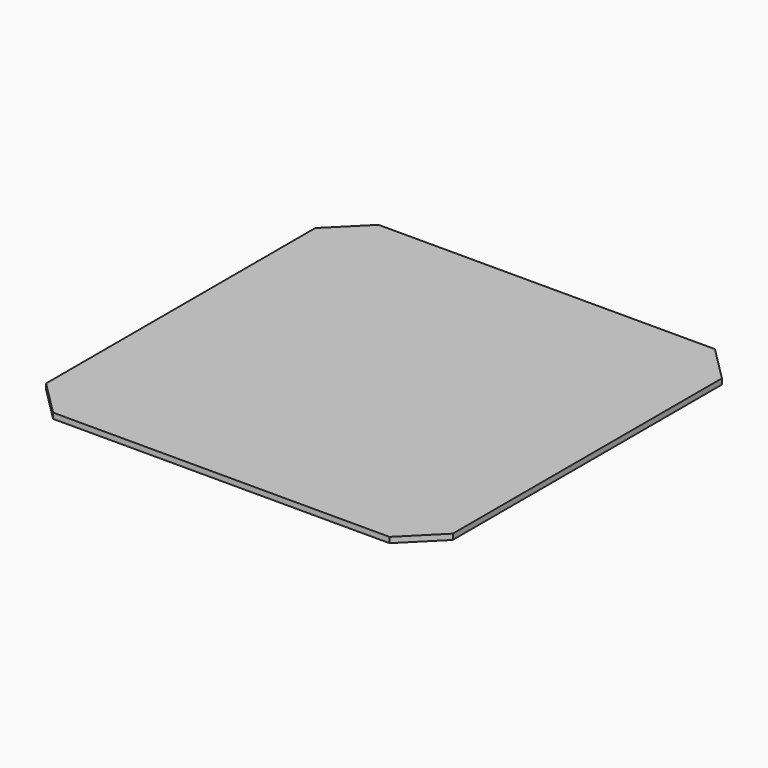
from build123d import *

# Parameters (mm, degrees)
F0_W     = 220
F0_H     = 220
F1_DEPTH = 3
F2_SIZE  = 19


with BuildPart() as f1:
    # F0 (on Top) → F1 (new body)
    with BuildSketch(Plane.XY):
        Rectangle(F0_W, F0_H)
    extrude(amount=F1_DEPTH)

    # F2
    f2_edges = [f1.edges().sort_by_distance(p)[0] for p in [
        (-110, -110, 1.5),
        (110, -110, 1.5),
        (-110, 110, 1.5),
        (110, 110, 1.5),
    ]]
    chamfer(f2_edges, length=F2_SIZE)


solid = f1.part
